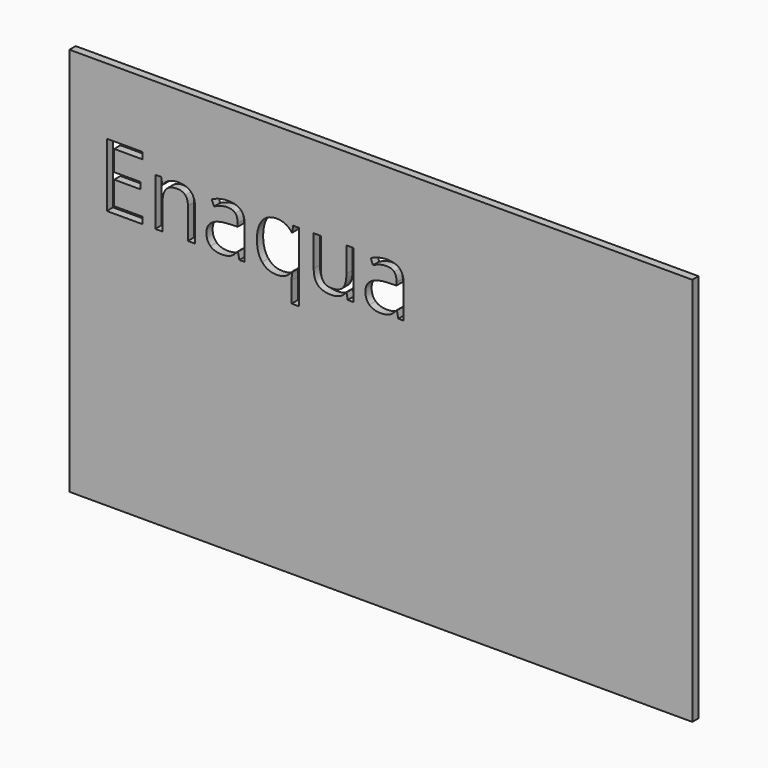
from build123d import *

# Parameters (mm, degrees)
F0_W     = 101.6
F0_H     = 63.5
F1_DEPTH = 1.27


with BuildPart() as f1:
    # F0 (on Front) → F1 (new body)
    with BuildSketch(Plane.XZ):
        with Locations((-15.1200704277, 17.3774155871)):
            Rectangle(F0_W, F0_H)
        Polygon((-54.0476633337, 29.0188750451), (-54.0476633337, 27.9393295906), (-59.8362996974, 27.9393295906), (-59.8362996974, 38.3234204997), (-54.0476633337, 38.3234204997), (-54.0476633337, 37.2506932269), (-58.6294815156, 37.2506932269), (-58.6294815156, 33.9052386815), (-54.324936061, 33.9052386815), (-54.324936061, 32.8393295906), (-58.6294815156, 32.8393295906), (-58.6294815156, 29.0188750451), align=None, mode=Mode.SUBTRACT)
        with BuildLine():
            Line((-45.4181178792, 27.9393295906), (-46.5976633337, 27.9393295906))
            Line((-46.5976633337, 27.9393295906), (-46.5976633337, 32.9756932269))
            add(Edge.make_bspline(
                [(-46.5976633337, 32.9756932269), (-46.5976633337, 33.9256932269), (-47.0306178792, 34.3950114088)],
                knots=[0, 0, 0, 1, 1, 1], degree=2))
            add(Edge.make_bspline(
                [(-47.0306178792, 34.3950114088), (-47.4635724247, 34.8643295906), (-48.3885724247, 34.8643295906)],
                knots=[0, 0, 0, 1, 1, 1], degree=2))
            add(Edge.make_bspline(
                [(-48.3885724247, 34.8643295906), (-49.6090269701, 34.8643295906), (-50.1772087883, 34.2041023179)],
                knots=[0, 0, 0, 1, 1, 1], degree=2))
            add(Edge.make_bspline(
                [(-50.1772087883, 34.2041023179), (-50.7453906065, 33.5438750451), (-50.7453906065, 32.0234204997)],
                knots=[0, 0, 0, 1, 1, 1], degree=2))
            Line((-50.7453906065, 32.0234204997), (-50.7453906065, 27.9393295906))
            Line((-50.7453906065, 27.9393295906), (-51.924936061, 27.9393295906))
            Line((-51.924936061, 27.9393295906), (-51.924936061, 35.7234204997))
            Line((-51.924936061, 35.7234204997), (-50.9658451519, 35.7234204997))
            Line((-50.9658451519, 35.7234204997), (-50.774936061, 34.6575114088))
            Line((-50.774936061, 34.6575114088), (-50.7181178792, 34.6575114088))
            add(Edge.make_bspline(
                [(-50.7181178792, 34.6575114088), (-50.3544815156, 35.2325114088), (-49.7010724247, 35.5495568633)],
                knots=[0, 0, 0, 1, 1, 1], degree=2))
            add(Edge.make_bspline(
                [(-49.7010724247, 35.5495568633), (-49.0476633337, 35.8666023179), (-48.2453906065, 35.8666023179)],
                knots=[0, 0, 0, 1, 1, 1], degree=2))
            add(Edge.make_bspline(
                [(-48.2453906065, 35.8666023179), (-46.8385724247, 35.8666023179), (-46.1283451519, 35.1881932269)],
                knots=[0, 0, 0, 1, 1, 1], degree=2))
            add(Edge.make_bspline(
                [(-46.1283451519, 35.1881932269), (-45.4181178792, 34.509784136), (-45.4181178792, 33.0166023179)],
                knots=[0, 0, 0, 1, 1, 1], degree=2))
            Line((-45.4181178792, 33.0166023179), (-45.4181178792, 27.9393295906))
        make_face(mode=Mode.SUBTRACT)
        with BuildLine():
            Line((-37.3362996974, 27.9393295906), (-38.2112996974, 27.9393295906))
            Line((-38.2112996974, 27.9393295906), (-38.4453906065, 29.0484204997))
            Line((-38.4453906065, 29.0484204997), (-38.5022087883, 29.0484204997))
            add(Edge.make_bspline(
                [(-38.5022087883, 29.0484204997), (-39.0840269701, 28.3166023179), (-39.662436061, 28.0563750451)],
                knots=[0, 0, 0, 1, 1, 1], degree=2))
            add(Edge.make_bspline(
                [(-39.662436061, 28.0563750451), (-40.2408451519, 27.7961477724), (-41.1090269701, 27.7961477724)],
                knots=[0, 0, 0, 1, 1, 1], degree=2))
            add(Edge.make_bspline(
                [(-41.1090269701, 27.7961477724), (-42.2658451519, 27.7961477724), (-42.9226633337, 28.3938750451)],
                knots=[0, 0, 0, 1, 1, 1], degree=2))
            add(Edge.make_bspline(
                [(-42.9226633337, 28.3938750451), (-43.5794815156, 28.9916023179), (-43.5794815156, 30.0916023179)],
                knots=[0, 0, 0, 1, 1, 1], degree=2))
            add(Edge.make_bspline(
                [(-43.5794815156, 30.0916023179), (-43.5794815156, 32.4484204997), (-39.8090269701, 32.5620568633)],
                knots=[0, 0, 0, 1, 1, 1], degree=2))
            Line((-39.8090269701, 32.5620568633), (-38.4885724247, 32.6052386815))
            Line((-38.4885724247, 32.6052386815), (-38.4885724247, 33.0893295906))
            add(Edge.make_bspline(
                [(-38.4885724247, 33.0893295906), (-38.4885724247, 34.0052386815), (-38.8817542428, 34.4416023179)],
                knots=[0, 0, 0, 1, 1, 1], degree=2))
            add(Edge.make_bspline(
                [(-38.8817542428, 34.4416023179), (-39.274936061, 34.8779659542), (-40.1431178792, 34.8779659542)],
                knots=[0, 0, 0, 1, 1, 1], degree=2))
            add(Edge.make_bspline(
                [(-40.1431178792, 34.8779659542), (-41.1158451519, 34.8779659542), (-42.3431178792, 34.2825114088)],
                knots=[0, 0, 0, 1, 1, 1], degree=2))
            Line((-42.3431178792, 34.2825114088), (-42.7067542428, 35.184784136))
            add(Edge.make_bspline(
                [(-42.7067542428, 35.184784136), (-42.1317542428, 35.4961477724), (-41.4465269701, 35.6734204997)],
                knots=[0, 0, 0, 1, 1, 1], degree=2))
            add(Edge.make_bspline(
                [(-41.4465269701, 35.6734204997), (-40.7612996974, 35.8506932269), (-40.0703906065, 35.8506932269)],
                knots=[0, 0, 0, 1, 1, 1], degree=2))
            add(Edge.make_bspline(
                [(-40.0703906065, 35.8506932269), (-38.6794815156, 35.8506932269), (-38.0078906065, 35.2336477724)],
                knots=[0, 0, 0, 1, 1, 1], degree=2))
            add(Edge.make_bspline(
                [(-38.0078906065, 35.2336477724), (-37.3362996974, 34.6166023179), (-37.3362996974, 33.2529659542)],
                knots=[0, 0, 0, 1, 1, 1], degree=2))
            Line((-37.3362996974, 33.2529659542), (-37.3362996974, 27.9393295906))
        make_face(mode=Mode.SUBTRACT)
        with BuildLine():
            add(Edge.make_bspline(
                [(-29.6885724247, 28.9825114088), (-30.5044815156, 27.7961477724), (-32.1453906065, 27.7961477724)],
                knots=[0, 0, 0, 1, 1, 1], degree=2))
            add(Edge.make_bspline(
                [(-32.1453906065, 27.7961477724), (-33.6522087883, 27.7961477724), (-34.4976633337, 28.8552386815)],
                knots=[0, 0, 0, 1, 1, 1], degree=2))
            add(Edge.make_bspline(
                [(-34.4976633337, 28.8552386815), (-35.3431178792, 29.9143295906), (-35.3431178792, 31.809784136)],
                knots=[0, 0, 0, 1, 1, 1], degree=2))
            add(Edge.make_bspline(
                [(-35.3431178792, 31.809784136), (-35.3431178792, 33.7211477724), (-34.4908451519, 34.7938750451)],
                knots=[0, 0, 0, 1, 1, 1], degree=2))
            add(Edge.make_bspline(
                [(-34.4908451519, 34.7938750451), (-33.6385724247, 35.8666023179), (-32.1181178792, 35.8666023179)],
                knots=[0, 0, 0, 1, 1, 1], degree=2))
            add(Edge.make_bspline(
                [(-32.1181178792, 35.8666023179), (-30.5203906065, 35.8666023179), (-29.6612996974, 34.6575114088)],
                knots=[0, 0, 0, 1, 1, 1], degree=2))
            Line((-29.6612996974, 34.6575114088), (-29.5953906065, 34.6575114088))
            Line((-29.5953906065, 34.6575114088), (-29.424936061, 35.7234204997))
            Line((-29.424936061, 35.7234204997), (-28.4953906065, 35.7234204997))
            Line((-28.4953906065, 35.7234204997), (-28.4953906065, 24.4438750451))
            Line((-28.4953906065, 24.4438750451), (-29.674936061, 24.4438750451))
            Line((-29.674936061, 24.4438750451), (-29.674936061, 27.7756932269))
            add(Edge.make_bspline(
                [(-29.674936061, 27.7756932269), (-29.674936061, 28.4870568633), (-29.5953906065, 28.9825114088)],
                knots=[0, 0, 0, 1, 1, 1], degree=2))
            Line((-29.5953906065, 28.9825114088), (-29.6885724247, 28.9825114088))
        make_face(mode=Mode.SUBTRACT)
        with BuildLine():
            Line((-26.0794815156, 35.7234204997), (-24.8862996974, 35.7234204997))
            Line((-24.8862996974, 35.7234204997), (-24.8862996974, 30.6734204997))
            add(Edge.make_bspline(
                [(-24.8862996974, 30.6734204997), (-24.8862996974, 29.7211477724), (-24.4533451519, 29.2529659542)],
                knots=[0, 0, 0, 1, 1, 1], degree=2))
            add(Edge.make_bspline(
                [(-24.4533451519, 29.2529659542), (-24.0203906065, 28.784784136), (-23.0976633337, 28.784784136)],
                knots=[0, 0, 0, 1, 1, 1], degree=2))
            add(Edge.make_bspline(
                [(-23.0976633337, 28.784784136), (-21.874936061, 28.784784136), (-21.3112996974, 29.4518295906)],
                knots=[0, 0, 0, 1, 1, 1], degree=2))
            add(Edge.make_bspline(
                [(-21.3112996974, 29.4518295906), (-20.7476633337, 30.1188750451), (-20.7476633337, 31.6325114088)],
                knots=[0, 0, 0, 1, 1, 1], degree=2))
            Line((-20.7476633337, 31.6325114088), (-20.7476633337, 35.7234204997))
            Line((-20.7476633337, 35.7234204997), (-19.5681178792, 35.7234204997))
            Line((-19.5681178792, 35.7234204997), (-19.5681178792, 27.9393295906))
            Line((-19.5681178792, 27.9393295906), (-20.5408451519, 27.9393295906))
            Line((-20.5408451519, 27.9393295906), (-20.7112996974, 28.9825114088))
            Line((-20.7112996974, 28.9825114088), (-20.774936061, 28.9825114088))
            add(Edge.make_bspline(
                [(-20.774936061, 28.9825114088), (-21.1362996974, 28.4075114088), (-21.7794815156, 28.1018295906)],
                knots=[0, 0, 0, 1, 1, 1], degree=2))
            add(Edge.make_bspline(
                [(-21.7794815156, 28.1018295906), (-22.4226633337, 27.7961477724), (-23.2476633337, 27.7961477724)],
                knots=[0, 0, 0, 1, 1, 1], degree=2))
            add(Edge.make_bspline(
                [(-23.2476633337, 27.7961477724), (-24.6681178792, 27.7961477724), (-25.3737996974, 28.4711477724)],
                knots=[0, 0, 0, 1, 1, 1], degree=2))
            add(Edge.make_bspline(
                [(-25.3737996974, 28.4711477724), (-26.0794815156, 29.1461477724), (-26.0794815156, 30.6302386815)],
                knots=[0, 0, 0, 1, 1, 1], degree=2))
            Line((-26.0794815156, 30.6302386815), (-26.0794815156, 35.7234204997))
        make_face(mode=Mode.SUBTRACT)
        with BuildLine():
            Line((-11.4067542428, 27.9393295906), (-12.2817542428, 27.9393295906))
            Line((-12.2817542428, 27.9393295906), (-12.5158451519, 29.0484204997))
            Line((-12.5158451519, 29.0484204997), (-12.5726633337, 29.0484204997))
            add(Edge.make_bspline(
                [(-12.5726633337, 29.0484204997), (-13.1544815156, 28.3166023179), (-13.7328906065, 28.0563750451)],
                knots=[0, 0, 0, 1, 1, 1], degree=2))
            add(Edge.make_bspline(
                [(-13.7328906065, 28.0563750451), (-14.3112996974, 27.7961477724), (-15.1794815156, 27.7961477724)],
                knots=[0, 0, 0, 1, 1, 1], degree=2))
            add(Edge.make_bspline(
                [(-15.1794815156, 27.7961477724), (-16.3362996974, 27.7961477724), (-16.9931178792, 28.3938750451)],
                knots=[0, 0, 0, 1, 1, 1], degree=2))
            add(Edge.make_bspline(
                [(-16.9931178792, 28.3938750451), (-17.649936061, 28.9916023179), (-17.649936061, 30.0916023179)],
                knots=[0, 0, 0, 1, 1, 1], degree=2))
            add(Edge.make_bspline(
                [(-17.649936061, 30.0916023179), (-17.649936061, 32.4484204997), (-13.8794815156, 32.5620568633)],
                knots=[0, 0, 0, 1, 1, 1], degree=2))
            Line((-13.8794815156, 32.5620568633), (-12.5590269701, 32.6052386815))
            Line((-12.5590269701, 32.6052386815), (-12.5590269701, 33.0893295906))
            add(Edge.make_bspline(
                [(-12.5590269701, 33.0893295906), (-12.5590269701, 34.0052386815), (-12.9522087883, 34.4416023179)],
                knots=[0, 0, 0, 1, 1, 1], degree=2))
            add(Edge.make_bspline(
                [(-12.9522087883, 34.4416023179), (-13.3453906065, 34.8779659542), (-14.2135724247, 34.8779659542)],
                knots=[0, 0, 0, 1, 1, 1], degree=2))
            add(Edge.make_bspline(
                [(-14.2135724247, 34.8779659542), (-15.1862996974, 34.8779659542), (-16.4135724247, 34.2825114088)],
                knots=[0, 0, 0, 1, 1, 1], degree=2))
            Line((-16.4135724247, 34.2825114088), (-16.7772087883, 35.184784136))
            add(Edge.make_bspline(
                [(-16.7772087883, 35.184784136), (-16.2022087883, 35.4961477724), (-15.5169815156, 35.6734204997)],
                knots=[0, 0, 0, 1, 1, 1], degree=2))
            add(Edge.make_bspline(
                [(-15.5169815156, 35.6734204997), (-14.8317542428, 35.8506932269), (-14.1408451519, 35.8506932269)],
                knots=[0, 0, 0, 1, 1, 1], degree=2))
            add(Edge.make_bspline(
                [(-14.1408451519, 35.8506932269), (-12.749936061, 35.8506932269), (-12.0783451519, 35.2336477724)],
                knots=[0, 0, 0, 1, 1, 1], degree=2))
            add(Edge.make_bspline(
                [(-12.0783451519, 35.2336477724), (-11.4067542428, 34.6166023179), (-11.4067542428, 33.2529659542)],
                knots=[0, 0, 0, 1, 1, 1], degree=2))
            Line((-11.4067542428, 33.2529659542), (-11.4067542428, 27.9393295906))
        make_face(mode=Mode.SUBTRACT)
    extrude(amount=F1_DEPTH)


solid = f1.part
